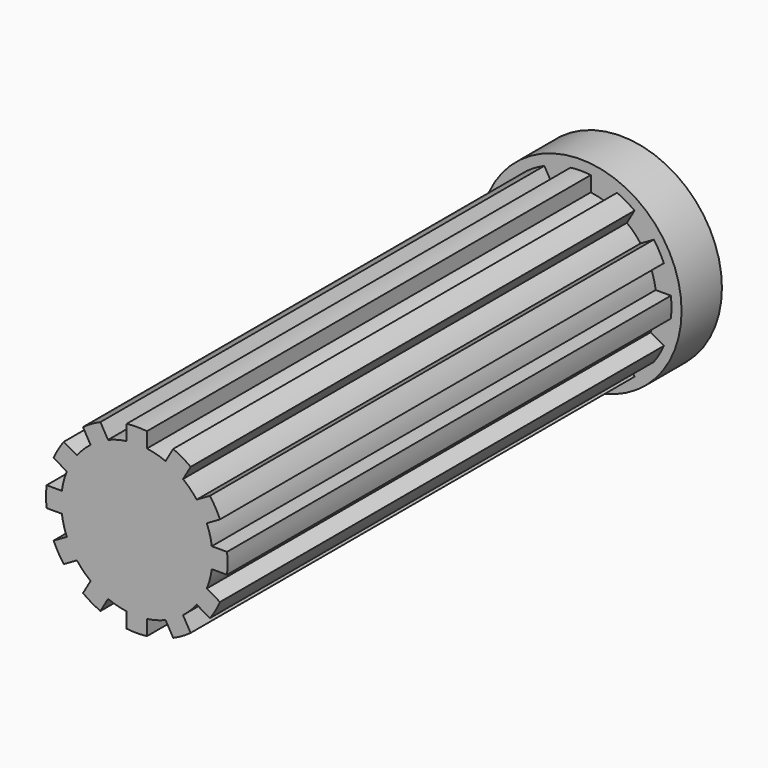
from build123d import *

# Parameters (mm, degrees)
F1_DEPTH = 60
F0_R     = 10
F2_DEPTH = 5


with BuildPart() as f1:
    # F0 (on Front) → F1 (new body)
    with BuildSketch(Plane.XZ):
        with BuildLine():
            Line((1, 7.433034), (1, 8.944272))
            ThreePointArc((1, 8.944272), (0, 9), (-1, 8.944272))
            Line((-1, 8.944272), (-1, 7.433034))
            ThreePointArc((-1, 7.433034), (0, 7.5), (1, 7.433034))
        make_face()
        with BuildLine():
            Line((3.606111, 8.245967), (2.850492, 6.937197))
            ThreePointArc((2.850492, 6.937197), (3.75, 6.495191), (4.582543, 5.937197))
            Line((4.582543, 5.937197), (5.338161, 7.245967))
            ThreePointArc((5.338161, 7.245967), (4.5, 7.794229), (3.606111, 8.245967))
        make_face()
        with BuildLine():
            Line((7.245967, 5.338161), (5.937197, 4.582543))
            ThreePointArc((5.937197, 4.582543), (6.495191, 3.75), (6.937197, 2.850492))
            Line((6.937197, 2.850492), (8.245967, 3.606111))
            ThreePointArc((8.245967, 3.606111), (7.794229, 4.5), (7.245967, 5.338161))
        make_face()
        with BuildLine():
            Line((8.944272, 1), (7.433034, 1))
            ThreePointArc((7.433034, 1), (7.48324, 0.50112), (7.5, 0))
            ThreePointArc((7.5, 0), (7.48324, -0.50112), (7.433034, -1))
            Line((7.433034, -1), (8.944272, -1))
            ThreePointArc((8.944272, -1), (9, 0), (8.944272, 1))
        make_face()
        with BuildLine():
            Line((8.245967, -3.606111), (6.937197, -2.850492))
            ThreePointArc((6.937197, -2.850492), (6.495191, -3.75), (5.937197, -4.582543))
            Line((5.937197, -4.582543), (7.245967, -5.338161))
            ThreePointArc((7.245967, -5.338161), (7.794229, -4.5), (8.245967, -3.606111))
        make_face()
        with BuildLine():
            Line((5.338161, -7.245967), (4.582543, -5.937197))
            ThreePointArc((4.582543, -5.937197), (3.75, -6.495191), (2.850492, -6.937197))
            Line((2.850492, -6.937197), (3.606111, -8.245967))
            ThreePointArc((3.606111, -8.245967), (4.5, -7.794229), (5.338161, -7.245967))
        make_face()
        with BuildLine():
            ThreePointArc((1, -7.433034), (0, -7.5), (-1, -7.433034))
            Line((-1, -7.433034), (-1, -8.944272))
            ThreePointArc((-1, -8.944272), (0, -9), (1, -8.944272))
            Line((1, -8.944272), (1, -7.433034))
        make_face()
        with BuildLine():
            ThreePointArc((-2.850492, -6.937197), (-3.75, -6.495191), (-4.582543, -5.937197))
            Line((-4.582543, -5.937197), (-5.338161, -7.245967))
            ThreePointArc((-5.338161, -7.245967), (-4.5, -7.794229), (-3.606111, -8.245967))
            Line((-3.606111, -8.245967), (-2.850492, -6.937197))
        make_face()
        with BuildLine():
            ThreePointArc((-5.937197, -4.582543), (-6.495191, -3.75), (-6.937197, -2.850492))
            Line((-6.937197, -2.850492), (-8.245967, -3.606111))
            ThreePointArc((-8.245967, -3.606111), (-7.794229, -4.5), (-7.245967, -5.338161))
            Line((-7.245967, -5.338161), (-5.937197, -4.582543))
        make_face()
        with BuildLine():
            ThreePointArc((-7.433034, -1), (-7.5, 0), (-7.433034, 1))
            Line((-7.433034, 1), (-8.944272, 1))
            ThreePointArc((-8.944272, 1), (-9, 0), (-8.944272, -1))
            Line((-8.944272, -1), (-7.433034, -1))
        make_face()
        with BuildLine():
            ThreePointArc((-6.937197, 2.850492), (-6.495191, 3.75), (-5.937197, 4.582543))
            Line((-5.937197, 4.582543), (-7.245967, 5.338161))
            ThreePointArc((-7.245967, 5.338161), (-7.794229, 4.5), (-8.245967, 3.606111))
            Line((-8.245967, 3.606111), (-6.937197, 2.850492))
        make_face()
        with BuildLine():
            ThreePointArc((-4.582543, 5.937197), (-3.75, 6.495191), (-2.850492, 6.937197))
            Line((-2.850492, 6.937197), (-3.606111, 8.245967))
            ThreePointArc((-3.606111, 8.245967), (-4.5, 7.794229), (-5.338161, 7.245967))
            Line((-5.338161, 7.245967), (-4.582543, 5.937197))
        make_face()
        with BuildLine():
            ThreePointArc((2.850492, 6.937197), (1.941143, 7.244444), (1, 7.433034))
            ThreePointArc((1, 7.433034), (0, 7.5), (-1, 7.433034))
            ThreePointArc((-1, 7.433034), (-1.941143, 7.244444), (-2.850492, 6.937197))
            ThreePointArc((-2.850492, 6.937197), (-3.75, 6.495191), (-4.582543, 5.937197))
            ThreePointArc((-4.582543, 5.937197), (-5.303301, 5.303301), (-5.937197, 4.582543))
            ThreePointArc((-5.937197, 4.582543), (-6.495191, 3.75), (-6.937197, 2.850492))
            ThreePointArc((-6.937197, 2.850492), (-7.244444, 1.941143), (-7.433034, 1))
            ThreePointArc((-7.433034, 1), (-7.5, 0), (-7.433034, -1))
            ThreePointArc((-7.433034, -1), (-7.244444, -1.941143), (-6.937197, -2.850492))
            ThreePointArc((-6.937197, -2.850492), (-6.495191, -3.75), (-5.937197, -4.582543))
            ThreePointArc((-5.937197, -4.582543), (-5.303301, -5.303301), (-4.582543, -5.937197))
            ThreePointArc((-4.582543, -5.937197), (-3.75, -6.495191), (-2.850492, -6.937197))
            ThreePointArc((-2.850492, -6.937197), (-1.941143, -7.244444), (-1, -7.433034))
            ThreePointArc((-1, -7.433034), (0, -7.5), (1, -7.433034))
            ThreePointArc((1, -7.433034), (1.941143, -7.244444), (2.850492, -6.937197))
            ThreePointArc((2.850492, -6.937197), (3.75, -6.495191), (4.582543, -5.937197))
            ThreePointArc((4.582543, -5.937197), (5.303301, -5.303301), (5.937197, -4.582543))
            ThreePointArc((5.937197, -4.582543), (6.495191, -3.75), (6.937197, -2.850492))
            ThreePointArc((6.937197, -2.850492), (7.244444, -1.941143), (7.433034, -1))
            ThreePointArc((7.433034, -1), (7.48324, -0.50112), (7.5, 0))
            ThreePointArc((7.5, 0), (7.48324, 0.50112), (7.433034, 1))
            ThreePointArc((7.433034, 1), (7.244444, 1.941143), (6.937197, 2.850492))
            ThreePointArc((6.937197, 2.850492), (6.495191, 3.75), (5.937197, 4.582543))
            ThreePointArc((5.937197, 4.582543), (5.303301, 5.303301), (4.582543, 5.937197))
            ThreePointArc((4.582543, 5.937197), (3.75, 6.495191), (2.850492, 6.937197))
        make_face()
    extrude(amount=F1_DEPTH)

    # F0 (on Front) → F2 (join)
    with BuildSketch(Plane.XZ):
        Circle(F0_R)
        with BuildLine():
            ThreePointArc((-1, 8.944272), (0, 9), (1, 8.944272))
            Line((1, 8.944272), (1, 7.433034))
            ThreePointArc((1, 7.433034), (1.941143, 7.244444), (2.850492, 6.937197))
            Line((2.850492, 6.937197), (3.606111, 8.245967))
            ThreePointArc((3.606111, 8.245967), (4.5, 7.794229), (5.338161, 7.245967))
            Line((5.338161, 7.245967), (4.582543, 5.937197))
            ThreePointArc((4.582543, 5.937197), (5.303301, 5.303301), (5.937197, 4.582543))
            Line((5.937197, 4.582543), (7.245967, 5.338161))
            ThreePointArc((7.245967, 5.338161), (7.794229, 4.5), (8.245967, 3.606111))
            Line((8.245967, 3.606111), (6.937197, 2.850492))
            ThreePointArc((6.937197, 2.850492), (7.244444, 1.941143), (7.433034, 1))
            Line((7.433034, 1), (8.944272, 1))
            ThreePointArc((8.944272, 1), (9, 0), (8.944272, -1))
            Line((8.944272, -1), (7.433034, -1))
            ThreePointArc((7.433034, -1), (7.244444, -1.941143), (6.937197, -2.850492))
            Line((6.937197, -2.850492), (8.245967, -3.606111))
            ThreePointArc((8.245967, -3.606111), (7.794229, -4.5), (7.245967, -5.338161))
            Line((7.245967, -5.338161), (5.937197, -4.582543))
            ThreePointArc((5.937197, -4.582543), (5.303301, -5.303301), (4.582543, -5.937197))
            Line((4.582543, -5.937197), (5.338161, -7.245967))
            ThreePointArc((5.338161, -7.245967), (4.5, -7.794229), (3.606111, -8.245967))
            Line((3.606111, -8.245967), (2.850492, -6.937197))
            ThreePointArc((2.850492, -6.937197), (1.941143, -7.244444), (1, -7.433034))
            Line((1, -7.433034), (1, -8.944272))
            ThreePointArc((1, -8.944272), (0, -9), (-1, -8.944272))
            Line((-1, -8.944272), (-1, -7.433034))
            ThreePointArc((-1, -7.433034), (-1.941143, -7.244444), (-2.850492, -6.937197))
            Line((-2.850492, -6.937197), (-3.606111, -8.245967))
            ThreePointArc((-3.606111, -8.245967), (-4.5, -7.794229), (-5.338161, -7.245967))
            Line((-5.338161, -7.245967), (-4.582543, -5.937197))
            ThreePointArc((-4.582543, -5.937197), (-5.303301, -5.303301), (-5.937197, -4.582543))
            Line((-5.937197, -4.582543), (-7.245967, -5.338161))
            ThreePointArc((-7.245967, -5.338161), (-7.794229, -4.5), (-8.245967, -3.606111))
            Line((-8.245967, -3.606111), (-6.937197, -2.850492))
            ThreePointArc((-6.937197, -2.850492), (-7.244444, -1.941143), (-7.433034, -1))
            Line((-7.433034, -1), (-8.944272, -1))
            ThreePointArc((-8.944272, -1), (-9, 0), (-8.944272, 1))
            Line((-8.944272, 1), (-7.433034, 1))
            ThreePointArc((-7.433034, 1), (-7.244444, 1.941143), (-6.937197, 2.850492))
            Line((-6.937197, 2.850492), (-8.245967, 3.606111))
            ThreePointArc((-8.245967, 3.606111), (-7.794229, 4.5), (-7.245967, 5.338161))
            Line((-7.245967, 5.338161), (-5.937197, 4.582543))
            ThreePointArc((-5.937197, 4.582543), (-5.303301, 5.303301), (-4.582543, 5.937197))
            Line((-4.582543, 5.937197), (-5.338161, 7.245967))
            ThreePointArc((-5.338161, 7.245967), (-4.5, 7.794229), (-3.606111, 8.245967))
            Line((-3.606111, 8.245967), (-2.850492, 6.937197))
            ThreePointArc((-2.850492, 6.937197), (-1.941143, 7.244444), (-1, 7.433034))
            Line((-1, 7.433034), (-1, 8.944272))
        make_face(mode=Mode.SUBTRACT)
        with BuildLine():
            ThreePointArc((2.850492, 6.937197), (1.941143, 7.244444), (1, 7.433034))
            ThreePointArc((1, 7.433034), (0, 7.5), (-1, 7.433034))
            ThreePointArc((-1, 7.433034), (-1.941143, 7.244444), (-2.850492, 6.937197))
            ThreePointArc((-2.850492, 6.937197), (-3.75, 6.495191), (-4.582543, 5.937197))
            ThreePointArc((-4.582543, 5.937197), (-5.303301, 5.303301), (-5.937197, 4.582543))
            ThreePointArc((-5.937197, 4.582543), (-6.495191, 3.75), (-6.937197, 2.850492))
            ThreePointArc((-6.937197, 2.850492), (-7.244444, 1.941143), (-7.433034, 1))
            ThreePointArc((-7.433034, 1), (-7.5, 0), (-7.433034, -1))
            ThreePointArc((-7.433034, -1), (-7.244444, -1.941143), (-6.937197, -2.850492))
            ThreePointArc((-6.937197, -2.850492), (-6.495191, -3.75), (-5.937197, -4.582543))
            ThreePointArc((-5.937197, -4.582543), (-5.303301, -5.303301), (-4.582543, -5.937197))
            ThreePointArc((-4.582543, -5.937197), (-3.75, -6.495191), (-2.850492, -6.937197))
            ThreePointArc((-2.850492, -6.937197), (-1.941143, -7.244444), (-1, -7.433034))
            ThreePointArc((-1, -7.433034), (0, -7.5), (1, -7.433034))
            ThreePointArc((1, -7.433034), (1.941143, -7.244444), (2.850492, -6.937197))
            ThreePointArc((2.850492, -6.937197), (3.75, -6.495191), (4.582543, -5.937197))
            ThreePointArc((4.582543, -5.937197), (5.303301, -5.303301), (5.937197, -4.582543))
            ThreePointArc((5.937197, -4.582543), (6.495191, -3.75), (6.937197, -2.850492))
            ThreePointArc((6.937197, -2.850492), (7.244444, -1.941143), (7.433034, -1))
            ThreePointArc((7.433034, -1), (7.48324, -0.50112), (7.5, 0))
            ThreePointArc((7.5, 0), (7.48324, 0.50112), (7.433034, 1))
            ThreePointArc((7.433034, 1), (7.244444, 1.941143), (6.937197, 2.850492))
            ThreePointArc((6.937197, 2.850492), (6.495191, 3.75), (5.937197, 4.582543))
            ThreePointArc((5.937197, 4.582543), (5.303301, 5.303301), (4.582543, 5.937197))
            ThreePointArc((4.582543, 5.937197), (3.75, 6.495191), (2.850492, 6.937197))
        make_face()
        with BuildLine():
            ThreePointArc((1, -7.433034), (0, -7.5), (-1, -7.433034))
            Line((-1, -7.433034), (-1, -8.944272))
            ThreePointArc((-1, -8.944272), (0, -9), (1, -8.944272))
            Line((1, -8.944272), (1, -7.433034))
        make_face()
        with BuildLine():
            Line((5.338161, -7.245967), (4.582543, -5.937197))
            ThreePointArc((4.582543, -5.937197), (3.75, -6.495191), (2.850492, -6.937197))
            Line((2.850492, -6.937197), (3.606111, -8.245967))
            ThreePointArc((3.606111, -8.245967), (4.5, -7.794229), (5.338161, -7.245967))
        make_face()
        with BuildLine():
            Line((8.245967, -3.606111), (6.937197, -2.850492))
            ThreePointArc((6.937197, -2.850492), (6.495191, -3.75), (5.937197, -4.582543))
            Line((5.937197, -4.582543), (7.245967, -5.338161))
            ThreePointArc((7.245967, -5.338161), (7.794229, -4.5), (8.245967, -3.606111))
        make_face()
        with BuildLine():
            Line((8.944272, 1), (7.433034, 1))
            ThreePointArc((7.433034, 1), (7.48324, 0.50112), (7.5, 0))
            ThreePointArc((7.5, 0), (7.48324, -0.50112), (7.433034, -1))
            Line((7.433034, -1), (8.944272, -1))
            ThreePointArc((8.944272, -1), (9, 0), (8.944272, 1))
        make_face()
        with BuildLine():
            Line((7.245967, 5.338161), (5.937197, 4.582543))
            ThreePointArc((5.937197, 4.582543), (6.495191, 3.75), (6.937197, 2.850492))
            Line((6.937197, 2.850492), (8.245967, 3.606111))
            ThreePointArc((8.245967, 3.606111), (7.794229, 4.5), (7.245967, 5.338161))
        make_face()
        with BuildLine():
            Line((3.606111, 8.245967), (2.850492, 6.937197))
            ThreePointArc((2.850492, 6.937197), (3.75, 6.495191), (4.582543, 5.937197))
            Line((4.582543, 5.937197), (5.338161, 7.245967))
            ThreePointArc((5.338161, 7.245967), (4.5, 7.794229), (3.606111, 8.245967))
        make_face()
        with BuildLine():
            Line((1, 7.433034), (1, 8.944272))
            ThreePointArc((1, 8.944272), (0, 9), (-1, 8.944272))
            Line((-1, 8.944272), (-1, 7.433034))
            ThreePointArc((-1, 7.433034), (0, 7.5), (1, 7.433034))
        make_face()
        with BuildLine():
            ThreePointArc((-4.582543, 5.937197), (-3.75, 6.495191), (-2.850492, 6.937197))
            Line((-2.850492, 6.937197), (-3.606111, 8.245967))
            ThreePointArc((-3.606111, 8.245967), (-4.5, 7.794229), (-5.338161, 7.245967))
            Line((-5.338161, 7.245967), (-4.582543, 5.937197))
        make_face()
        with BuildLine():
            ThreePointArc((-6.937197, 2.850492), (-6.495191, 3.75), (-5.937197, 4.582543))
            Line((-5.937197, 4.582543), (-7.245967, 5.338161))
            ThreePointArc((-7.245967, 5.338161), (-7.794229, 4.5), (-8.245967, 3.606111))
            Line((-8.245967, 3.606111), (-6.937197, 2.850492))
        make_face()
        with BuildLine():
            ThreePointArc((-7.433034, -1), (-7.5, 0), (-7.433034, 1))
            Line((-7.433034, 1), (-8.944272, 1))
            ThreePointArc((-8.944272, 1), (-9, 0), (-8.944272, -1))
            Line((-8.944272, -1), (-7.433034, -1))
        make_face()
        with BuildLine():
            ThreePointArc((-5.937197, -4.582543), (-6.495191, -3.75), (-6.937197, -2.850492))
            Line((-6.937197, -2.850492), (-8.245967, -3.606111))
            ThreePointArc((-8.245967, -3.606111), (-7.794229, -4.5), (-7.245967, -5.338161))
            Line((-7.245967, -5.338161), (-5.937197, -4.582543))
        make_face()
        with BuildLine():
            ThreePointArc((-2.850492, -6.937197), (-3.75, -6.495191), (-4.582543, -5.937197))
            Line((-4.582543, -5.937197), (-5.338161, -7.245967))
            ThreePointArc((-5.338161, -7.245967), (-4.5, -7.794229), (-3.606111, -8.245967))
            Line((-3.606111, -8.245967), (-2.850492, -6.937197))
        make_face()
    extrude(amount=F2_DEPTH)


solid = f1.part
